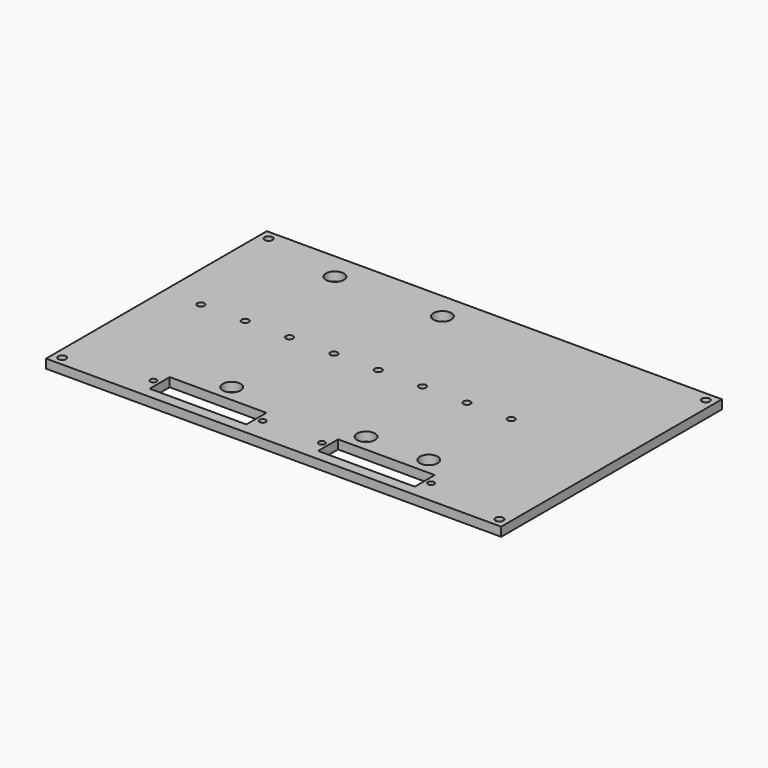
from build123d import *

# Parameters (mm, degrees)
F0_W     = 254
F0_H     = 154
F1_DEPTH = 5
F2_R     = 2.188369
F2_R_2   = 5
F2_W     = 54
F2_H     = 14
F2_R_3   = 1.75
F2_R_4   = 2
F3_DEPTH = 5.001


with BuildPart() as f1:
    # F0 (on Top) → F1 (new body)
    with BuildSketch(Plane.XY):
        Rectangle(F0_W, F0_H)
    extrude(amount=F1_DEPTH)

    # F2 (on face) → F3 (cut, through all)
    with BuildSketch(Plane.XY.offset(5)):
        with Locations((-122, 72)):
            Circle(F2_R)
        with Locations((122, 72)):
            Circle(F2_R)
        with Locations((-122, -72)):
            Circle(F2_R)
        with Locations((122, -72)):
            Circle(F2_R)
        with Locations((-77, 62)):
            Circle(F2_R_2)
        with Locations((-17, 62)):
            Circle(F2_R_2)
        with Locations((-47, -47.5)):
            Circle(F2_R_2)
        with Locations((28, -47.5)):
            Circle(F2_R_2)
        with Locations((63, -47.5)):
            Circle(F2_R_2)
        with Locations((-47, -64)):
            Rectangle(F2_W, F2_H)
        with Locations((-77.5, -64)):
            Circle(F2_R_3)
        with Locations((67, 5)):
            Circle(F2_R_4)
        with Locations((42.25723, 5)):
            Circle(F2_R_4)
        with Locations((17.51446, 5)):
            Circle(F2_R_4)
        with Locations((-7.22831, 5)):
            Circle(F2_R_4)
        with Locations((-31.97108, 5)):
            Circle(F2_R_4)
        with Locations((-56.71385, 5)):
            Circle(F2_R_4)
        with Locations((-81.45662, 5)):
            Circle(F2_R_4)
        with Locations((-106.19939, 5)):
            Circle(F2_R_4)
        with Locations((-16.5, -64)):
            Circle(F2_R_3)
        with Locations((16.5, -64)):
            Circle(F2_R_3)
        with Locations((77.5, -64)):
            Circle(F2_R_3)
        with Locations((47, -64)):
            Rectangle(F2_W, F2_H)
    extrude(amount=-F3_DEPTH, mode=Mode.SUBTRACT)


solid = f1.part
